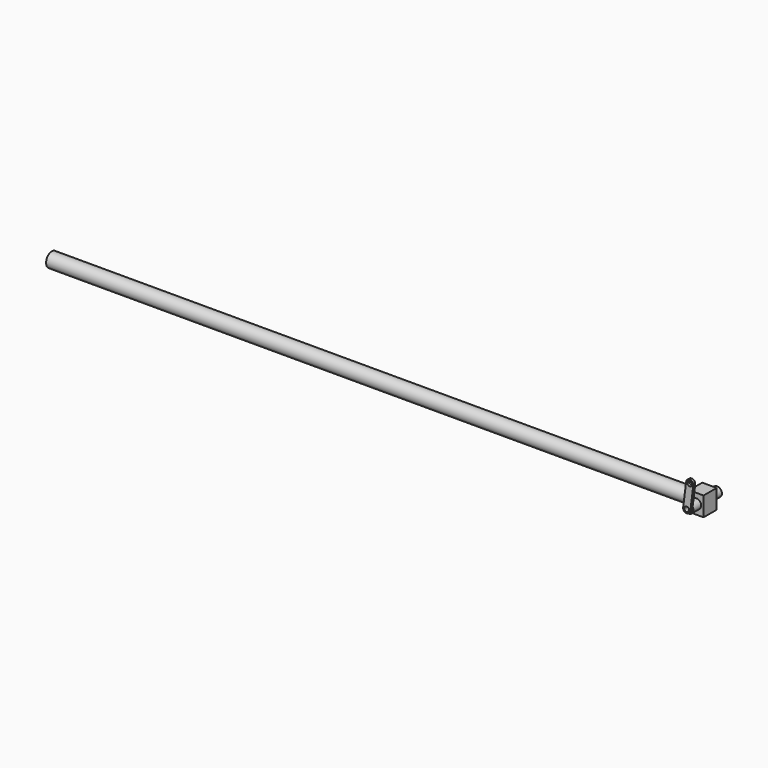
from build123d import *

# Parameters (mm, degrees)
F0_W      = 6
F0_H      = 8
F1_DEPTH  = 7.4
F2_W      = 6
F2_H      = 8
F2_R      = 2
F3_DEPTH  = 4
F4_W      = 6
F4_H      = 8
F4_R      = 2
F5_DEPTH  = 4
F6_R      = 3
F7_DEPTH  = 167.74
F8_R      = 3
F9_DEPTH  = 100
F11_DEPTH = 14.801
F12_DEPTH = 1


with BuildPart() as f1:
    # F0 (on Front) → F1 (new body, symmetric)
    with BuildSketch(Plane.XZ):
        Rectangle(F0_W, F0_H)
    extrude(amount=F1_DEPTH, both=True)

    # F2 (on face) → F3 (cut)
    with BuildSketch(Plane.XZ.offset(7.4)):
        Rectangle(F2_W, F2_H)
        Circle(F2_R, mode=Mode.SUBTRACT)
    extrude(amount=-F3_DEPTH, mode=Mode.SUBTRACT)

    # F4 (on face) → F5 (cut)
    with BuildSketch(Plane(origin=(0, 7.4, 0), x_dir=(-1, 0, 0), z_dir=(0, 1, 0))):
        Rectangle(F4_W, F4_H)
        Circle(F4_R, mode=Mode.SUBTRACT)
    extrude(amount=-F5_DEPTH, mode=Mode.SUBTRACT)

    # F6 (on face) → F7 (join)
    with BuildSketch(Plane(origin=(-3, 0, 0), x_dir=(0, -1, 0), z_dir=(-1, 0, 0))):
        Circle(F6_R)
    extrude(amount=F7_DEPTH)

    # F8 (on face) → F9 (join)
    with BuildSketch(Plane(origin=(-170.74, 0, 0), x_dir=(0, -1, 0), z_dir=(-1, 0, 0))):
        Circle(F8_R)
    extrude(amount=F9_DEPTH)

    # F10 (on face) → F11 (cut, through all)
    with BuildSketch(Plane.XZ.offset(7.4)):
        with BuildLine():
            ThreePointArc((0.126134, 0.992013), (-0.750378, -0.661009), (1, 0))
            ThreePointArc((1, 0), (0.750378, 0.661009), (0.126134, 0.992013))
        make_face()
    extrude(amount=-F11_DEPTH, mode=Mode.SUBTRACT)


with BuildPart() as f12:
    # F10 (on face) → F12 (new body)
    with BuildSketch(Plane.XZ.offset(7.4)):
        with BuildLine():
            ThreePointArc((-1.321161, 1.501511), (-0.586377, 1.912109), (0.252268, 1.984026))
            ThreePointArc((0.252268, 1.984026), (1.04623, 1.704524), (1.654879, 1.123109))
            Line((1.654879, 1.123109), (2.734826, 9.61664))
            ThreePointArc((2.734826, 9.61664), (1.436007, 11.293861), (-0.241214, 9.995042))
            Line((-0.241214, 9.995042), (-1.321161, 1.501511))
        make_face()
        with BuildLine():
            ThreePointArc((2.246806, 9.805841), (1.907815, 9.055463), (1.120672, 8.813828))
            ThreePointArc((1.120672, 8.813828), (0.585797, 10.556219), (2.246806, 9.805841))
        make_face(mode=Mode.SUBTRACT)
        with BuildLine():
            ThreePointArc((1.654879, 1.123109), (1.04623, 1.704524), (0.252268, 1.984026))
            ThreePointArc((0.252268, 1.984026), (-0.586377, 1.912109), (-1.321161, 1.501511))
            Line((-1.321161, 1.501511), (-1.48802, 0.189201))
            ThreePointArc((-1.48802, 0.189201), (-0.189201, -1.48802), (1.48802, -0.189201))
            Line((1.48802, -0.189201), (1.654879, 1.123109))
        make_face()
        with BuildLine():
            ThreePointArc((0.126134, 0.992013), (0.750378, 0.661009), (1, 0))
            ThreePointArc((1, 0), (-0.750378, -0.661009), (0.126134, 0.992013))
        make_face(mode=Mode.SUBTRACT)
    extrude(amount=F12_DEPTH)


solid = Compound([f1.part, f12.part])
